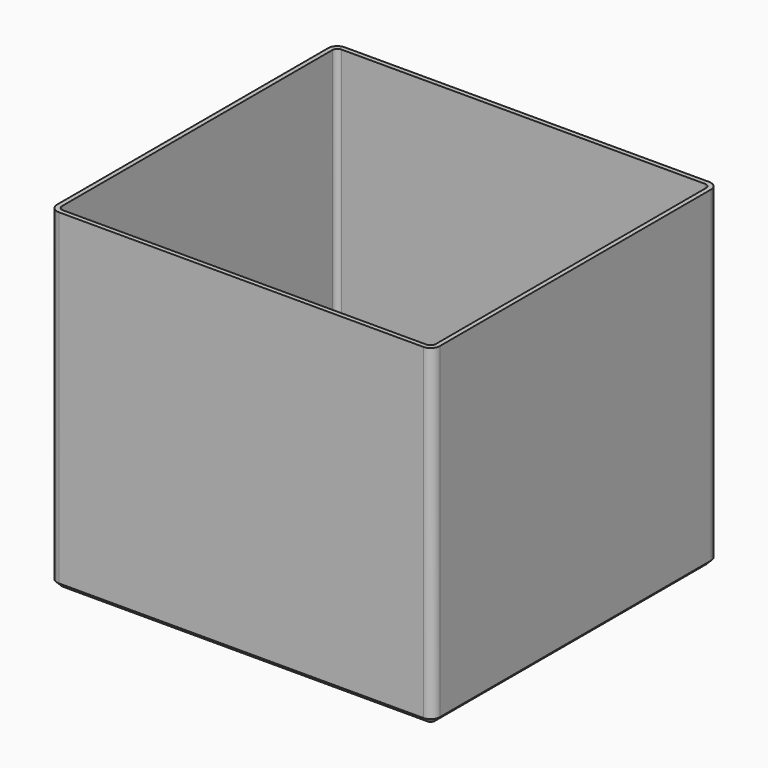
from build123d import *

# Parameters (mm, degrees)
SKETCH_W        = 150
SKETCH_H        = 140
PAD_DEPTH       = 130
SKETCH001_W     = 146.4
SKETCH001_H     = 136.4
POCKET_DEPTH    = 127
SKETCH002_R     = 5
POCKET001_DEPTH = 130.001
FILLET_R        = 2
FILLET001_R     = 3.6
CHAMFER_SIZE    = 2


with BuildPart() as part:
    # Sketch → Pad (new body)
    with BuildSketch(Plane.XY):
        Rectangle(SKETCH_W, SKETCH_H)
    extrude(amount=PAD_DEPTH)

    # Sketch001 (on DatumPlane) → Pocket (cut)
    with BuildSketch(Plane.XY.offset(130)):
        Rectangle(SKETCH001_W, SKETCH001_H)
    extrude(amount=-POCKET_DEPTH, mode=Mode.SUBTRACT)

    # Sketch002 → Pocket001 (cut, through all)
    with BuildSketch(Plane.XY):
        with Locations((-37.5, 35)):
            Circle(SKETCH002_R)
        with Locations((37.5, 35)):
            Circle(SKETCH002_R)
        with Locations((37.5, -35)):
            Circle(SKETCH002_R)
        with Locations((-37.5, -35)):
            Circle(SKETCH002_R)
        Circle(SKETCH002_R)
    extrude(amount=POCKET001_DEPTH, mode=Mode.SUBTRACT)

    # Fillet
    fillet_edges = [part.edges().sort_by_distance(p)[0] for p in [
        (-73.2, 68.2, 66.5),
        (0, 68.2, 3),
        (-73.2, 0, 3),
        (-73.2, -68.2, 66.5),
        (0, -68.2, 3),
        (73.2, -68.2, 66.5),
        (73.2, 0, 3),
        (73.2, 68.2, 66.5),
    ]]
    fillet(fillet_edges, radius=FILLET_R)

    # Fillet001
    fillet001_edges = [part.edges().sort_by_distance(p)[0] for p in [
        (-75, -70, 65),
        (75, -70, 65),
        (75, 70, 65),
        (-75, 70, 65),
    ]]
    fillet(fillet001_edges, radius=FILLET001_R)

    # Chamfer
    chamfer_edges = [part.edges().sort_by_distance(p)[0] for p in [
        (0, 70, 0),
    ]]
    chamfer(chamfer_edges, length=CHAMFER_SIZE)


solid = part.part
